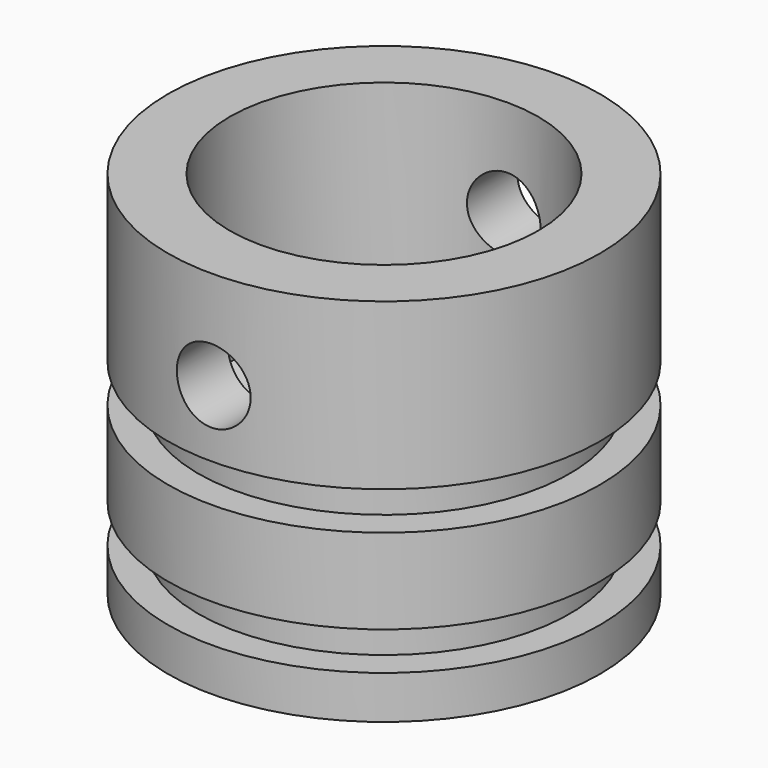
from build123d import *

# Parameters (mm, degrees)
F2_R     = 2.99
F3_DEPTH = 20


with BuildPart() as f1:
    # F0 (on Front) → F1 (revolve)
    with BuildSketch(Plane.XZ):
        Polygon((-17.5, 0), (0, 0), (0, 5.283122), (-12.5, 12.5), (-12.5, 30), (-17.5, 30), (-17.5, 16.6), (-15.05, 16.6), (-15.05, 13.5), (-17.5, 13.5), (-17.5, 6.6), (-15.05, 6.6), (-15.05, 3.5), (-17.5, 3.5), align=None)
    revolve(axis=Axis((0, 0, 2.641561), (0, 0, 1)))

    # F2 (on Front) → F3 (cut, symmetric)
    with BuildSketch(Plane.XZ):
        with Locations((0, 22)):
            Circle(F2_R)
    extrude(amount=F3_DEPTH, both=True, mode=Mode.SUBTRACT)


solid = f1.part
